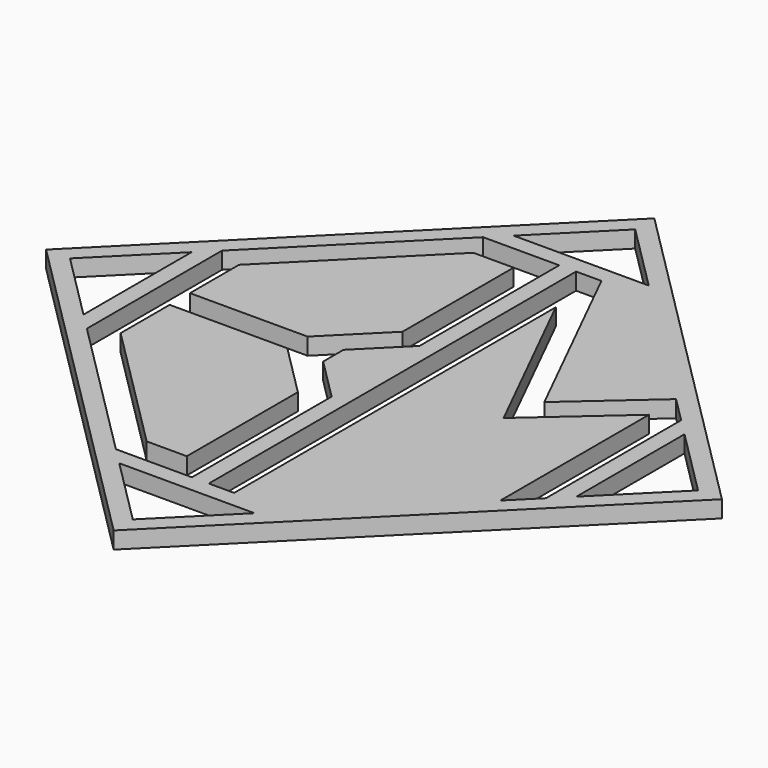
from build123d import *

# Parameters (mm, degrees)
F1_DEPTH = 5
F3_DEPTH = 5.001
F6_DEPTH = 5.001


with BuildPart() as f1:
    # F0 (on Top) → F1 (new body)
    with BuildSketch(Plane.XY):
        Polygon((100, 0), (0, 100), (-100, 0), (0, -100), align=None)
    extrude(amount=F1_DEPTH)

    # F2 (on face) → F3 (cut, through all)
    with BuildSketch(Plane.XY.offset(5)):
        Polygon((-92.928932, 0), (-72.928932, -20), (-72.928932, 20), align=None)
        Polygon((0, 92.928932), (-20, 72.928932), (20, 72.928932), align=None)
        Polygon((92.928932, 0), (72.928932, 20), (72.928932, -20), align=None)
        Polygon((0, -92.928932), (20, -72.928932), (-20, -72.928932), align=None)
    extrude(amount=-F3_DEPTH, mode=Mode.SUBTRACT)

    # F5 (on face) + F4 (on face) → F6 (cut, through all)
    with BuildSketch(Plane.XY.offset(5)):
        Polygon((2.5, 67.928932), (2.5, -67.928932), (10, -67.928932), (10, 51.051879), (35.214466, 0.222794), (60.428932, 22.493399), (60.428932, -32.5), (67.928932, -25), (67.928932, 25), (60.428932, 32.5), (37.584309, 12.322552), (10, 67.928932), align=None)
    with BuildSketch(Plane.XY.offset(5)):
        Polygon((-67.928932, 25), (-67.928932, -25), (-25, -67.928932), (-2.5, -67.928932), (-2.5, -16.25), (-15, -3.75), (-15, 3.75), (-2.5, 16.25), (-2.5, 67.928932), (-25, 67.928932), align=None)
        Polygon((-21.893398, -60.428932), (-60.428932, -21.893398), (-60.428932, -3.75), (-25.606602, -3.75), (-10, -19.356602), (-10, -60.428932), align=None, mode=Mode.SUBTRACT)
        Polygon((-60.428932, 21.893398), (-21.893398, 60.428932), (-10, 60.428932), (-10, 19.356602), (-25.606602, 3.75), (-60.428932, 3.75), align=None, mode=Mode.SUBTRACT)
    extrude(amount=-F6_DEPTH, mode=Mode.SUBTRACT)


solid = f1.part
